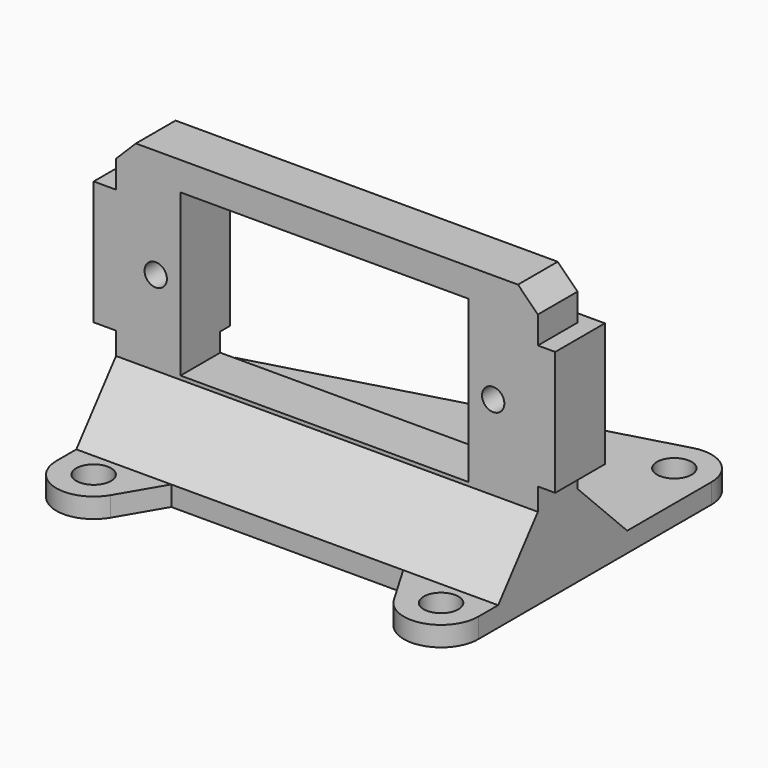
from build123d import *

# Parameters (mm, degrees)
PAD026_DEPTH            = 34
SKETCH034_R             = 0.9
POCKET006_DEPTH         = 12.001
SKETCH036_W             = 13
SKETCH036_H             = 23.2
POCKET007_DEPTH         = 12.001
SKETCH037_R             = 1.4
PAD027_DEPTH            = 1.6
SKETCH038_R             = 1.4
PAD028_DEPTH            = 1.6
SKETCH039_W             = 10
SKETCH039_H             = 7
SKETCH039_R             = 0.9
PAD029_DEPTH            = 5
CHAMFER002_SIZE         = 1.6
BODY006_PLACEMENT_ANGLE = 90


with BuildPart() as part:
    # Sketch035 → Pad026 (new body)
    with BuildSketch(Plane.XZ):
        Polygon((-12, 1.6), (-9, 1.6), (-4, 6.6), (-4, 22.2), (0, 22.2), (0, 6.6), (4, 1.6), (4, 0), (-3.601763, 0), (-12, 0), align=None)
    extrude(amount=PAD026_DEPTH)

    # Sketch034 → Pocket006 (cut, through all)
    with BuildSketch(Plane(origin=(0, 0, 0), x_dir=(0, 0, 1), z_dir=(1, 0, 0))):
        with Locations((13.4, 30.8)):
            Circle(SKETCH034_R)
        with Locations((13.4, 3.6)):
            Circle(SKETCH034_R)
    extrude(amount=-POCKET006_DEPTH, mode=Mode.SUBTRACT)

    # Sketch036 (on DatumPlane) → Pocket007 (cut, through all)
    with BuildSketch(Plane(origin=(0, 0, 0), x_dir=(0, 0, 1), z_dir=(1, 0, 0))):
        with Locations((13.4, 17.2)):
            Rectangle(SKETCH036_W, SKETCH036_H)
    extrude(amount=-POCKET007_DEPTH, mode=Mode.SUBTRACT)

    # Sketch037 → Pad027 (join)
    with BuildSketch(Plane.XY):
        with BuildLine():
            ThreePointArc((-17.5, 0), (-19.888457, -1.184712), (-20.390493, -3.803152))
            Line((-12, -34), (-20.390493, -3.803152))
            Line((-11.5, -34), (-12, -34))
            Line((-11.5, 0), (-11.5, -34))
            Line((-11.5, 0), (-17.5, 0))
        make_face()
        with Locations((-17.5, -3)):
            Circle(SKETCH037_R, mode=Mode.SUBTRACT)
    extrude(amount=PAD027_DEPTH)

    # Sketch038 → Pad028 (join)
    with BuildSketch(Plane.XY):
        with BuildLine():
            ThreePointArc((6, -34), (8.894987, -31.786799), (7.518515, -28.412702))
            Line((0, -24), (7.518515, -28.412702))
            Line((0, -34), (0, -24))
            Line((0, -34), (6, -34))
        make_face()
        with Locations((6, -31)):
            Circle(SKETCH038_R, mode=Mode.SUBTRACT)
        with BuildLine():
            ThreePointArc((7.518515, -5.587298), (8.894988, -2.213208), (6.000014, 0))
            Line((0, 0), (6.000014, 0))
            Line((0, 0), (0, -10))
            Line((0, -10), (7.518515, -5.587298))
        make_face()
        with Locations((6, -3)):
            Circle(SKETCH038_R, mode=Mode.SUBTRACT)
    extrude(amount=PAD028_DEPTH)

    # Sketch039 (on Face3 of Pad028) → Pad029 (join)
    with BuildSketch(Plane(origin=(0, 0, 0), x_dir=(0, 0, 1), z_dir=(1, 0, 0))):
        with Locations((13.4, 32.3)):
            Rectangle(SKETCH039_W, SKETCH039_H)
        with Locations((13.4, 30.8)):
            Circle(SKETCH039_R, mode=Mode.SUBTRACT)
        with Locations((13.4, 2.1)):
            Rectangle(SKETCH039_W, SKETCH039_H)
        with Locations((13.4, 3.6)):
            Circle(SKETCH039_R, mode=Mode.SUBTRACT)
    extrude(amount=-PAD029_DEPTH)

    # Chamfer002
    chamfer002_edges = [part.edges().sort_by_distance(p)[0] for p in [
        (-2, 0, 22.2),
        (-2, -34, 22.2),
    ]]
    chamfer(chamfer002_edges, length=CHAMFER002_SIZE)


with BuildPart() as part_1:
    # Body006 placement: moved
    add(part.part.moved(Location((12.020815, 35.221825, 4))).rotate(Axis((12.020815, 35.221825, 4), (0, 0, -1)), BODY006_PLACEMENT_ANGLE))


solid = part_1.part
